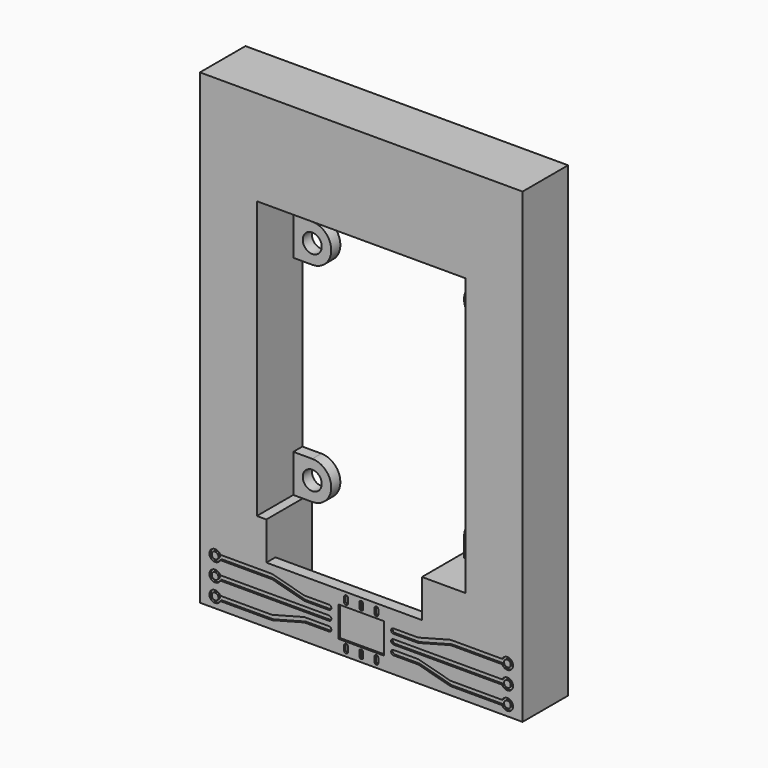
from build123d import *

# Parameters (mm, degrees)
F0_W     = 85
F0_H     = 123
F1_DEPTH = 15
F0_R     = 2.5
F2_DEPTH = 3
F3_START = 12
F0_W_2   = 41
F0_H_2   = 8
F3_DEPTH = 3
F4_R     = 0.875
F5_DEPTH = 0.5


with BuildPart() as f1:
    # F0 (on Front) → F1 (new body)
    with BuildSketch(Plane.XZ):
        with Locations((-6.7032766342, -3.7414353937)):
            Rectangle(F0_W, F0_H)
        Polygon((-34.2032766342, 24.7585646063), (-34.2032766342, 32.7585646063), (20.7967233658, 32.7585646063), (20.7967233658, 24.7585646063), (20.7967233658, 14.7585646063), (20.7967233658, -30.2414353937), (20.7967233658, -40.2414353937), (15.7967233658, -40.2414353937), (10.7967233658, -40.2414353937), (9.2967233658, -40.2414353937), (9.2967233658, -50.2414353937), (9.2967233658, -58.2414353937), (-31.7032766342, -58.2414353937), (-31.7032766342, -50.2414353937), (-31.7032766342, -40.2414353937), (-34.2032766342, -40.2414353937), (-34.2032766342, -30.2414353937), (-34.2032766342, 14.7585646063), align=None, mode=Mode.SUBTRACT)
    extrude(amount=F1_DEPTH)

    # F0 (on Front) → F2 (join)
    with BuildSketch(Plane.XZ):
        with BuildLine():
            Line((-29.2032766342, 24.7585646063), (-34.2032766342, 24.7585646063))
            Line((-34.2032766342, 24.7585646063), (-34.2032766342, 14.7585646063))
            Line((-34.2032766342, 14.7585646063), (-29.2032766342, 14.7585646063))
            ThreePointArc((-29.2032766342, 14.7585646063), (-24.2032766342, 19.7585646063), (-29.2032766342, 24.7585646063))
        make_face()
        with Locations((-29.2032766342, 19.7585646063)):
            Circle(F0_R, mode=Mode.SUBTRACT)
        with BuildLine():
            Line((20.7967233658, 14.7585646063), (20.7967233658, 24.7585646063))
            Line((20.7967233658, 24.7585646063), (15.7967233658, 24.7585646063))
            ThreePointArc((15.7967233658, 24.7585646063), (10.7967233658, 19.7585646063), (15.7967233658, 14.7585646063))
            Line((15.7967233658, 14.7585646063), (20.7967233658, 14.7585646063))
        make_face()
        with Locations((15.7967233658, 19.7585646063)):
            Circle(F0_R, mode=Mode.SUBTRACT)
        with BuildLine():
            Line((20.7967233658, -40.2414353937), (20.7967233658, -30.2414353937))
            Line((20.7967233658, -30.2414353937), (15.7967233658, -30.2414353937))
            ThreePointArc((15.7967233658, -30.2414353937), (12.2611894599, -31.7059014878), (10.7967233658, -35.2414353937))
            Line((10.7967233658, -35.2414353937), (10.7967233658, -40.2414353937))
            Line((10.7967233658, -40.2414353937), (15.7967233658, -40.2414353937))
            Line((15.7967233658, -40.2414353937), (20.7967233658, -40.2414353937))
        make_face()
        with Locations((15.7967233658, -35.2414353937)):
            Circle(F0_R, mode=Mode.SUBTRACT)
        with BuildLine():
            Line((-29.2032766342, -30.2414353937), (-34.2032766342, -30.2414353937))
            Line((-34.2032766342, -30.2414353937), (-34.2032766342, -40.2414353937))
            Line((-34.2032766342, -40.2414353937), (-31.7032766342, -40.2414353937))
            Line((-31.7032766342, -40.2414353937), (-29.2032766342, -40.2414353937))
            ThreePointArc((-29.2032766342, -40.2414353937), (-24.2032766342, -35.2414353937), (-29.2032766342, -30.2414353937))
        make_face()
        with Locations((-29.2032766342, -35.2414353937)):
            Circle(F0_R, mode=Mode.SUBTRACT)
    extrude(amount=F2_DEPTH)

    # F0 (on Front) → F3 (join)
    with BuildSketch(Plane.XZ.offset(F3_START)):
        with Locations((-11.2032766342, -54.2414353937)):
            Rectangle(F0_W_2, F0_H_2)
    extrude(amount=F3_DEPTH)

    # F4 (on face) → F5 (cut)
    with BuildSketch(Plane.XZ.offset(15)):
        with BuildLine():
            Line((-30.2032766342, -52.3664353937), (-43.8396876199, -52.3664353937))
            ThreePointArc((-43.8396876199, -52.3664353937), (-46.7032766342, -52.9914353937), (-43.8396876199, -53.6164353937))
            Line((-43.8396876199, -53.6164353937), (-30.2032766342, -53.6164353937))
            Line((-30.2032766342, -53.6164353937), (-21.7032766342, -55.8664353937))
            Line((-21.7032766342, -55.8664353937), (-15.2032766342, -55.8664353937))
            ThreePointArc((-15.2032766342, -55.8664353937), (-14.5782766342, -55.2414353937), (-15.2032766342, -54.6164353937))
            Line((-15.2032766342, -54.6164353937), (-21.7032766342, -54.6164353937))
            Line((-21.7032766342, -54.6164353937), (-30.2032766342, -52.3664353937))
        make_face()
        with Locations((-45.2032766342, -52.9914353937)):
            Circle(F4_R, mode=Mode.SUBTRACT)
        with BuildLine():
            Line((-15.2032766342, -57.1164353937), (-43.8396876199, -57.1164353937))
            ThreePointArc((-43.8396876199, -57.1164353937), (-46.7032766342, -57.7414353937), (-43.8396876199, -58.3664353937))
            Line((-43.8396876199, -58.3664353937), (-15.2032766342, -58.3664353937))
            ThreePointArc((-15.2032766342, -58.3664353937), (-14.5782766342, -57.7414353937), (-15.2032766342, -57.1164353937))
        make_face()
        with Locations((-45.2032766342, -57.7414353937)):
            Circle(F4_R, mode=Mode.SUBTRACT)
        with BuildLine():
            Line((-30.2032766342, -61.8664353937), (-43.8396876199, -61.8664353937))
            ThreePointArc((-43.8396876199, -61.8664353937), (-46.7032766342, -62.4914353937), (-43.8396876199, -63.1164353937))
            Line((-43.8396876199, -63.1164353937), (-30.2032766342, -63.1164353937))
            Line((-30.2032766342, -63.1164353937), (-21.7032766342, -60.8664353937))
            Line((-21.7032766342, -60.8664353937), (-15.2032766342, -60.8664353937))
            ThreePointArc((-15.2032766342, -60.8664353937), (-14.5782766342, -60.2414353937), (-15.2032766342, -59.6164353937))
            Line((-15.2032766342, -59.6164353937), (-21.7032766342, -59.6164353937))
            Line((-21.7032766342, -59.6164353937), (-30.2032766342, -61.8664353937))
        make_face()
        with Locations((-45.2032766342, -62.4914353937)):
            Circle(F4_R, mode=Mode.SUBTRACT)
        with BuildLine():
            Line((16.7967233658, -53.6164353937), (30.4331343515, -53.6164353937))
            ThreePointArc((30.4331343515, -53.6164353937), (33.2967233658, -52.9914353937), (30.4331343515, -52.3664353937))
            Line((30.4331343515, -52.3664353937), (16.7967233658, -52.3664353937))
            Line((16.7967233658, -52.3664353937), (8.2967233658, -54.6164353937))
            Line((8.2967233658, -54.6164353937), (1.7967233658, -54.6164353937))
            ThreePointArc((1.7967233658, -54.6164353937), (1.1717233658, -55.2414353937), (1.7967233658, -55.8664353937))
            Line((1.7967233658, -55.8664353937), (8.2967233658, -55.8664353937))
            Line((8.2967233658, -55.8664353937), (16.7967233658, -53.6164353937))
        make_face()
        with Locations((31.7967233658, -52.9914353937)):
            Circle(F4_R, mode=Mode.SUBTRACT)
        with BuildLine():
            Line((1.7967233658, -58.3664353937), (30.4331343515, -58.3664353937))
            ThreePointArc((30.4331343515, -58.3664353937), (33.2967233658, -57.7414353937), (30.4331343515, -57.1164353937))
            Line((30.4331343515, -57.1164353937), (1.7967233658, -57.1164353937))
            ThreePointArc((1.7967233658, -57.1164353937), (1.1717233658, -57.7414353937), (1.7967233658, -58.3664353937))
        make_face()
        with Locations((31.7967233658, -57.7414353937)):
            Circle(F4_R, mode=Mode.SUBTRACT)
        with BuildLine():
            Line((16.7967233658, -63.1164353937), (30.4331343515, -63.1164353937))
            ThreePointArc((30.4331343515, -63.1164353937), (33.2967233658, -62.4914353937), (30.4331343515, -61.8664353937))
            Line((30.4331343515, -61.8664353937), (16.7967233658, -61.8664353937))
            Line((16.7967233658, -61.8664353937), (8.2967233658, -59.6164353937))
            Line((8.2967233658, -59.6164353937), (1.7967233658, -59.6164353937))
            ThreePointArc((1.7967233658, -59.6164353937), (1.1717233658, -60.2414353937), (1.7967233658, -60.8664353937))
            Line((1.7967233658, -60.8664353937), (8.2967233658, -60.8664353937))
            Line((8.2967233658, -60.8664353937), (16.7967233658, -63.1164353937))
        make_face()
        with Locations((31.7967233658, -62.4914353937)):
            Circle(F4_R, mode=Mode.SUBTRACT)
        Polygon((-12.7032766342, -61.7414353937), (-6.7032766342, -61.7414353937), (-0.7032766342, -61.7414353937), (-0.7032766342, -57.7414353937), (-0.7032766342, -53.7414353937), (-6.7032766342, -53.7414353937), (-12.7032766342, -53.7414353937), (-12.7032766342, -57.7414353937), align=None)
        with BuildLine():
            Line((-6.2032766342, -52.7414353937), (-6.2032766342, -51.4914353937))
            ThreePointArc((-6.2032766342, -51.4914353937), (-6.7032766342, -50.9914353937), (-7.2032766342, -51.4914353937))
            Line((-7.2032766342, -51.4914353937), (-7.2032766342, -52.7414353937))
            ThreePointArc((-7.2032766342, -52.7414353937), (-6.7032766342, -53.2414353937), (-6.2032766342, -52.7414353937))
        make_face()
        with BuildLine():
            Line((-2.2032766342, -52.7414353937), (-2.2032766342, -51.4914353937))
            ThreePointArc((-2.2032766342, -51.4914353937), (-2.7032766342, -50.9914353937), (-3.2032766342, -51.4914353937))
            Line((-3.2032766342, -51.4914353937), (-3.2032766342, -52.7414353937))
            ThreePointArc((-3.2032766342, -52.7414353937), (-2.7032766342, -53.2414353937), (-2.2032766342, -52.7414353937))
        make_face()
        with BuildLine():
            ThreePointArc((-11.2032766342, -52.7414353937), (-10.7032766342, -53.2414353937), (-10.2032766342, -52.7414353937))
            Line((-10.2032766342, -52.7414353937), (-10.2032766342, -51.4914353937))
            ThreePointArc((-10.2032766342, -51.4914353937), (-10.7032766342, -50.9914353937), (-11.2032766342, -51.4914353937))
            Line((-11.2032766342, -51.4914353937), (-11.2032766342, -52.7414353937))
        make_face()
        with BuildLine():
            Line((-11.2032766342, -62.7414353937), (-11.2032766342, -63.9914353937))
            ThreePointArc((-11.2032766342, -63.9914353937), (-10.7032766342, -64.4914353937), (-10.2032766342, -63.9914353937))
            Line((-10.2032766342, -63.9914353937), (-10.2032766342, -62.7414353937))
            ThreePointArc((-10.2032766342, -62.7414353937), (-10.7032766342, -62.2414353937), (-11.2032766342, -62.7414353937))
        make_face()
        with BuildLine():
            Line((-3.2032766342, -62.7414353937), (-3.2032766342, -63.9914353937))
            ThreePointArc((-3.2032766342, -63.9914353937), (-2.7032766342, -64.4914353937), (-2.2032766342, -63.9914353937))
            Line((-2.2032766342, -63.9914353937), (-2.2032766342, -62.7414353937))
            ThreePointArc((-2.2032766342, -62.7414353937), (-2.7032766342, -62.2414353937), (-3.2032766342, -62.7414353937))
        make_face()
        with BuildLine():
            ThreePointArc((-6.2032766342, -62.7414353937), (-6.7032766342, -62.2414353937), (-7.2032766342, -62.7414353937))
            Line((-7.2032766342, -62.7414353937), (-7.2032766342, -63.9914353937))
            ThreePointArc((-7.2032766342, -63.9914353937), (-6.7032766342, -64.4914353937), (-6.2032766342, -63.9914353937))
            Line((-6.2032766342, -63.9914353937), (-6.2032766342, -62.7414353937))
        make_face()
    extrude(amount=-F5_DEPTH, mode=Mode.SUBTRACT)


solid = f1.part
